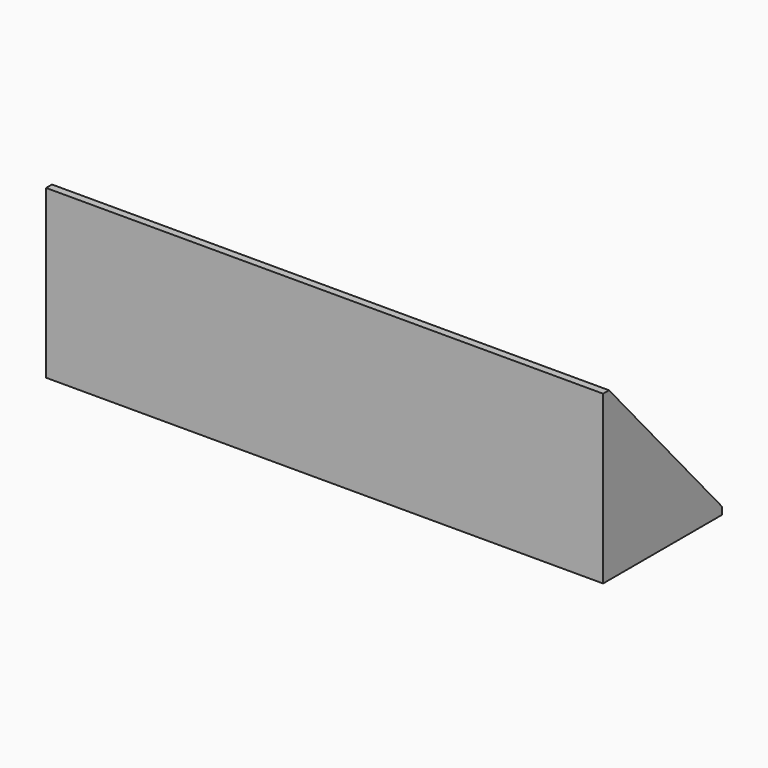
from build123d import *

# Parameters (mm, degrees)
F1_DEPTH = 300
F2_R     = 3.25
F3_DEPTH = 25
F5_DEPTH = 4
F8_DEPTH = 4


with BuildPart() as f1:
    # F0 (on Right) → F1 (new body)
    with BuildSketch(Plane.YZ):
        Polygon((0, 90), (0, 0), (80, 0), (80, 4), (4, 4), (4, 90), align=None)
    extrude(amount=F1_DEPTH)

    # F2 (on face) → F3 (cut)
    with BuildSketch(Plane.XY.offset(4)):
        with Locations((20, 42)):
            Circle(F2_R)
        with Locations((280, 42)):
            Circle(F2_R)
    extrude(amount=-F3_DEPTH, mode=Mode.SUBTRACT)

    # F4 (on Right) → F5 (join)
    with BuildSketch(Plane.YZ):
        Polygon((4, 4), (80, 4), (4, 90), align=None)
    extrude(amount=F5_DEPTH)

    # F7 (on offset) → F8 (join)
    with BuildSketch(Plane.YZ.offset(300)):
        Polygon((80, 4), (4, 90), (4, 4), align=None)
    extrude(amount=-F8_DEPTH)


solid = f1.part
